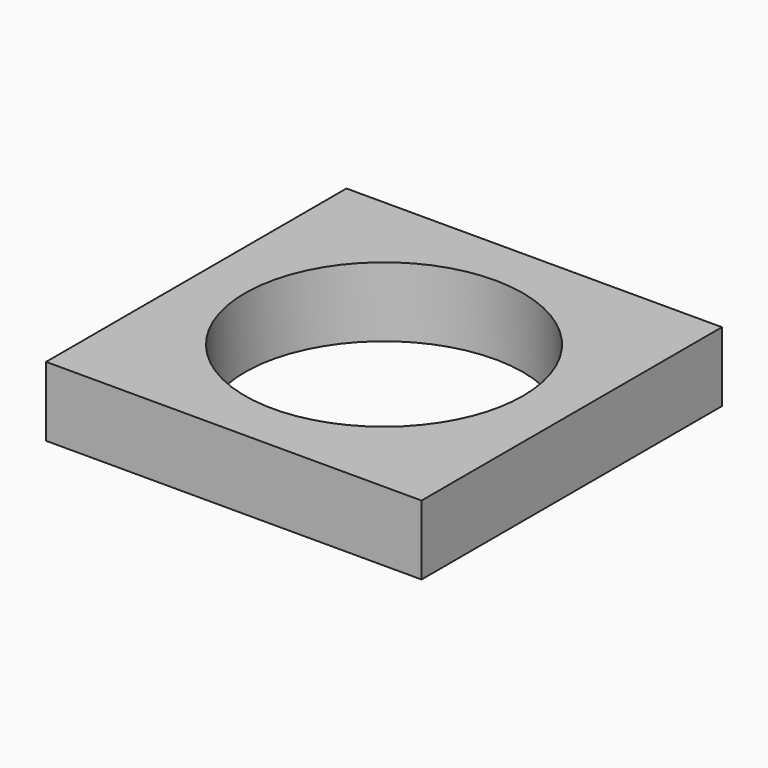
from build123d import *

# Parameters (mm, degrees)
F0_W     = 135
F0_H     = 135
F1_DEPTH = 25


with BuildPart() as f1:
    # F0 (on Top) → F1 (new body)
    with BuildSketch(Plane.XY):
        with BuildLine():
            ThreePointArc((46.599061, -18.125327), (49.142411, -9.220817), (50, 0))
            ThreePointArc((50, 0), (-49.142411, 9.220817), (46.599061, -18.125327))
        make_face()
        Rectangle(F0_W, F0_H)
        with BuildLine():
            ThreePointArc((46.599061, -18.125327), (-49.142411, 9.220817), (50, 0))
            ThreePointArc((50, 0), (49.142411, -9.220817), (46.599061, -18.125327))
        make_face(mode=Mode.SUBTRACT)
    extrude(amount=F1_DEPTH)


solid = f1.part
